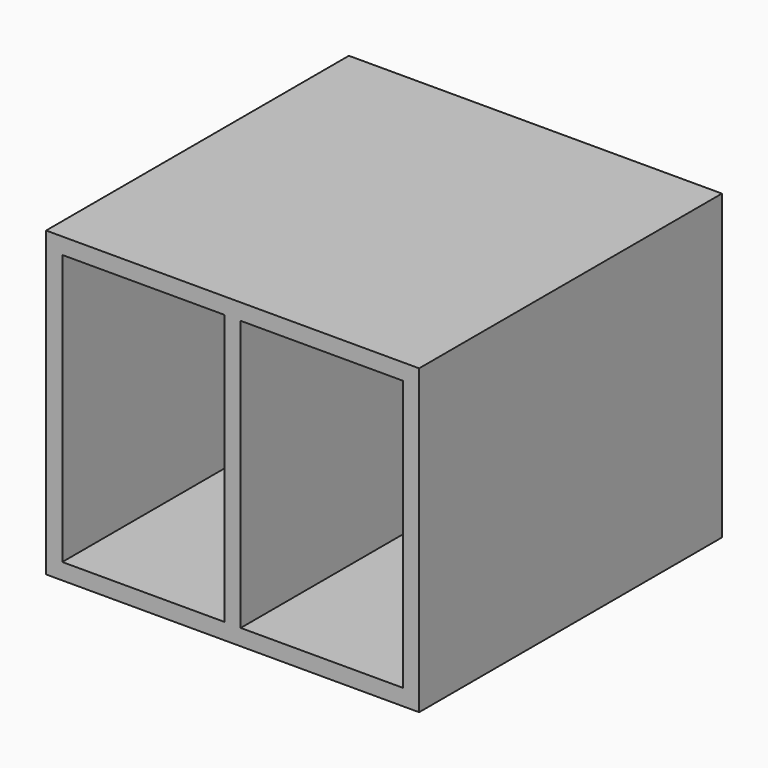
from build123d import *

# Parameters (mm, degrees)
F0_W     = 690
F0_H     = 560
F0_W_2   = 300
F0_H_2   = 500
F1_DEPTH = 700
F2_DEPTH = 30


with BuildPart() as f1:
    # F0 (on Front) → F1 (new body)
    with BuildSketch(Plane.XZ):
        Rectangle(F0_W, F0_H)
        with Locations((-165, 0)):
            Rectangle(F0_W_2, F0_H_2, mode=Mode.SUBTRACT)
        with Locations((165, 0)):
            Rectangle(F0_W_2, F0_H_2, mode=Mode.SUBTRACT)
    extrude(amount=F1_DEPTH)

    # F0 (on Front) → F2 (join)
    with BuildSketch(Plane.XZ):
        with Locations((-165, 0)):
            Rectangle(F0_W_2, F0_H_2)
        with Locations((165, 0)):
            Rectangle(F0_W_2, F0_H_2)
    extrude(amount=F2_DEPTH)


solid = f1.part
